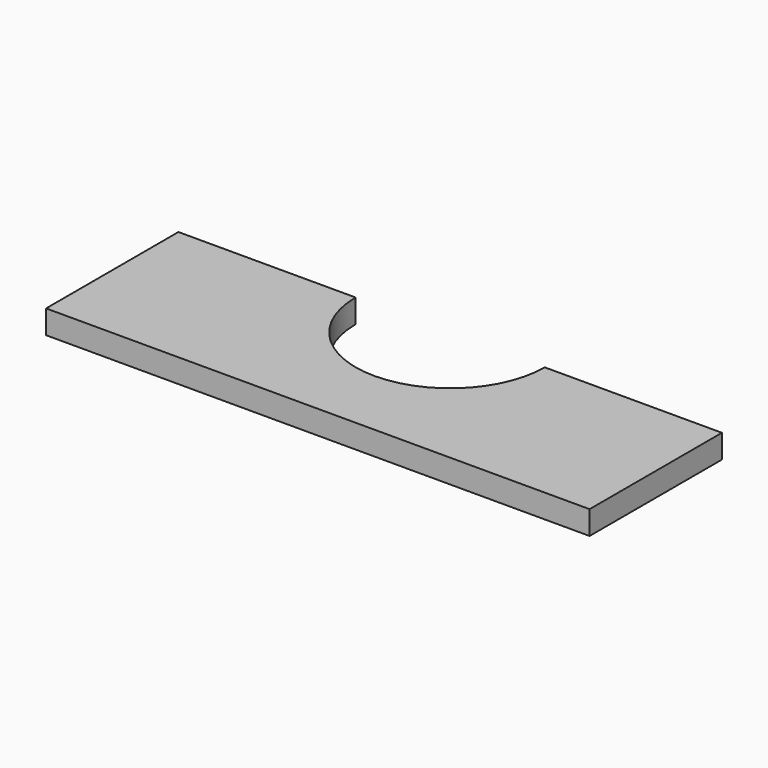
from build123d import *

# Parameters (mm, degrees)
F1_DEPTH = 6.35


with BuildPart() as f1:
    # F0 (on Top) → F1 (new body)
    with BuildSketch(Plane.XY):
        with BuildLine():
            Line((47.625, 0), (0, 0))
            Line((0, 0), (0, -44.45))
            Line((0, -44.45), (146.05, -44.45))
            Line((146.05, -44.45), (146.05, 0))
            Line((146.05, 0), (98.425, 0))
            ThreePointArc((98.425, 0), (73.025, -25.4), (47.625, 0))
        make_face()
    extrude(amount=F1_DEPTH)


solid = f1.part
